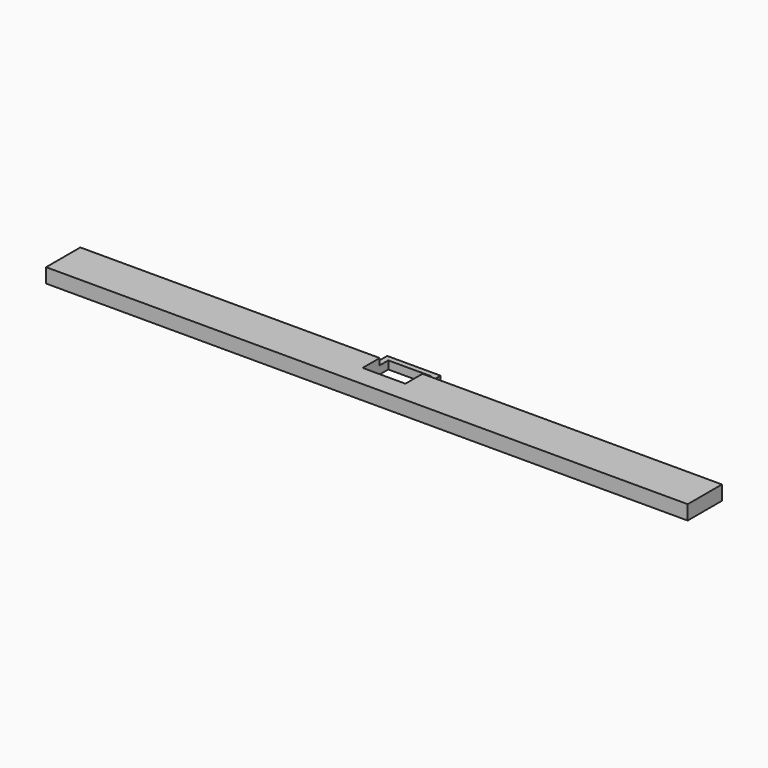
from build123d import *

# Parameters (mm, degrees)
F1_DEPTH = 1.5
F3_DEPTH = 1.2


with BuildPart() as f1:
    # F0 (on Top) → F1 (new body)
    with BuildSketch(Plane.XY):
        Polygon((0, 8), (0, 0), (120, 0), (120, 8), (65, 8), (64, 8), (64, 4), (56, 4), (56, 8), (55, 8), align=None)
        Polygon((55, 11), (55, 8), (56, 8), (56, 10), (64, 10), (64, 8), (65, 8), (65, 11), align=None)
    extrude(amount=F1_DEPTH)

    # F2 (on face) → F3 (join)
    with BuildSketch(Plane.XY.offset(1.5)):
        Polygon((0, 8), (0, 0), (120, 0), (120, 8), (65, 8), (64, 8), (64, 4), (56, 4), (56, 8), (55, 8), align=None)
    extrude(amount=F3_DEPTH)


solid = f1.part
